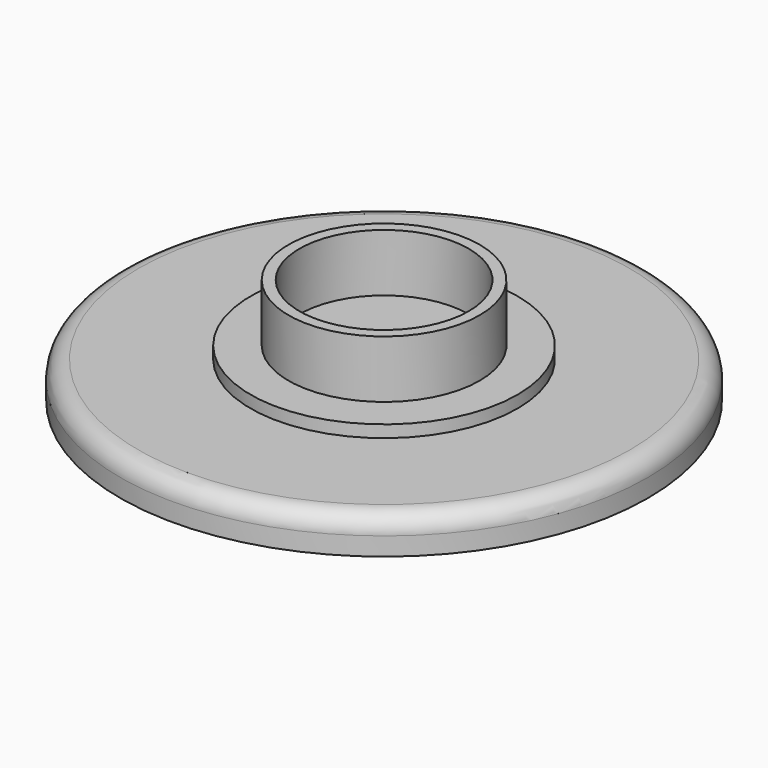
from build123d import *

# Parameters (mm, degrees)
F0_R     = 4.35
F1_DEPTH = 0.6
F2_R     = 2.2
F3_DEPTH = 0.2
F4_R     = 1.575
F4_R_2   = 1.395
F5_DEPTH = 0.95
F6_R     = 0.3
F7_W     = 0.580366
F7_H     = 5.113698
F7_W_2   = 0.687054
F7_H_2   = 6.536799
F7_W_3   = 0.685261
F7_H_3   = 7.790487
F8_DEPTH = 0.1


with BuildPart() as f1:
    # F0 (on Top) → F1 (new body)
    with BuildSketch(Plane.XY):
        Circle(F0_R)
    extrude(amount=F1_DEPTH)

    # F2 (on face) → F3 (join)
    with BuildSketch(Plane.XY.offset(0.6)):
        Circle(F2_R)
    extrude(amount=F3_DEPTH)

    # F4 (on face) → F5 (join)
    with BuildSketch(Plane.XY.offset(0.8)):
        Circle(F4_R)
        Circle(F4_R_2, mode=Mode.SUBTRACT)
    extrude(amount=F5_DEPTH)

    # F6
    f6_edges = [f1.edges().sort_by_distance(p)[0] for p in [
        (-4.35, 0, 0.6),
    ]]
    fillet(f6_edges, radius=F6_R)

    # F7 (on face) → F8 (join)
    with BuildSketch(Plane(origin=(0, 0, 0), x_dir=(1, 0, 0), z_dir=(0, 0, -1))):
        with Locations((-2.84447, -0.137814)):
            Rectangle(F7_W, F7_H)
        with Locations((-1.907698, 0.055486)):
            Rectangle(F7_W_2, F7_H_2)
        with Locations((-0.707726, -0.009958)):
            Rectangle(F7_W_3, F7_H_3)
        Polygon((1.110889, 3.865785), (0.42574, 3.878151), (0.285162, -3.911068), (0.970312, -3.923433), align=None)
        Polygon((1.496535, -3.24053), (2.183477, -3.252928), (2.301432, 3.282806), (1.61449, 3.295204), align=None)
        Polygon((3.168388, 2.362162), (2.588117, 2.372634), (2.495842, -2.740231), (3.076113, -2.750704), align=None)
    extrude(amount=F8_DEPTH)


solid = f1.part
